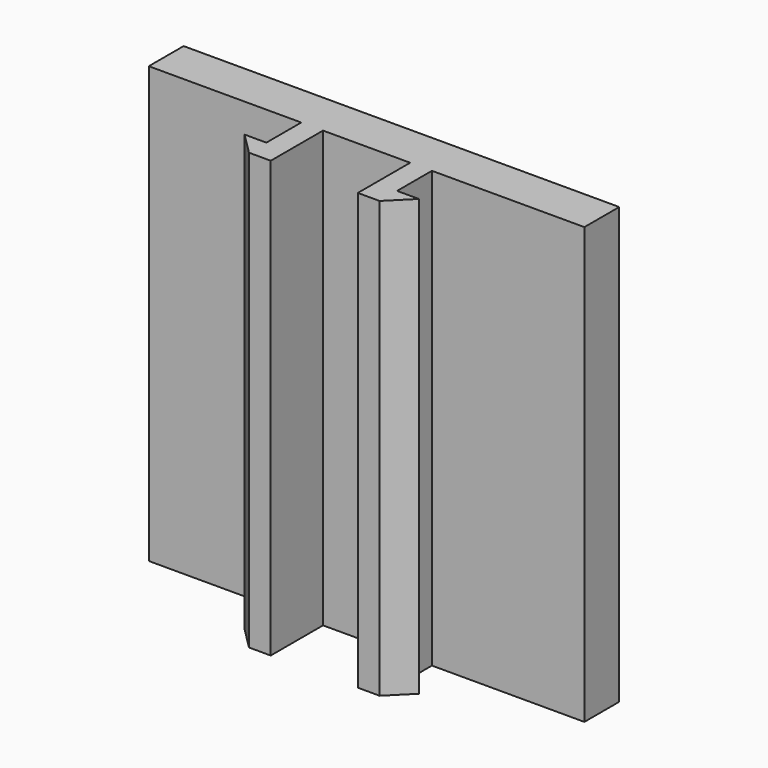
from build123d import *

# Parameters (mm, degrees)
PAD_DEPTH = 20


with BuildPart() as part:
    # Sketch → Pad (new body)
    with BuildSketch(Plane.XY):
        Polygon((-10, 1), (10, 1), (10, -1), (3, -1), (3, -3), (4, -3), (3, -4), (2, -4), (2, -1), (-2, -1), (-2, -4), (-3, -4), (-4, -3), (-3, -3), (-3, -1), (-10, -1), align=None)
    extrude(amount=PAD_DEPTH)


solid = part.part
